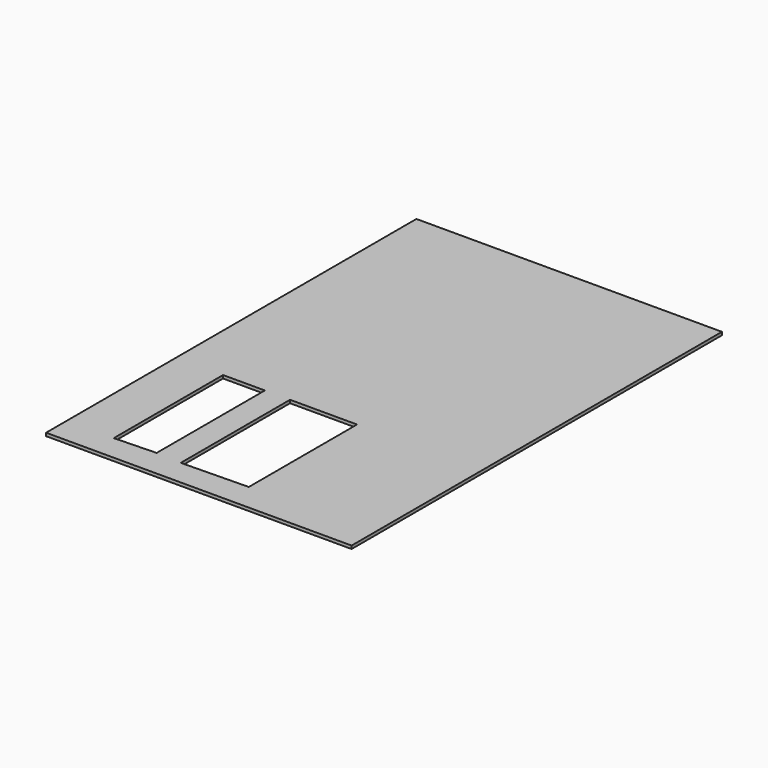
from build123d import *

# Parameters (mm, degrees)
F0_W     = 99
F0_H     = 150
F1_DEPTH = 1
F3_DEPTH = 25


with BuildPart() as f1:
    # F0 (on Top) → F1 (new body)
    with BuildSketch(Plane.XY):
        Rectangle(F0_W, F0_H)
    extrude(amount=F1_DEPTH)

    # F2 (on face) → F3 (cut)
    with BuildSketch(Plane.XY.offset(1)):
        Polygon((-34.271829, -22.346523), (-34.271829, -66.609822), (-20.734994, -66.18008), (-20.734994, -22.346523), align=None)
        Polygon((-12.569919, -22.346523), (-12.569919, -66.609822), (9.131993, -66.18008), (9.131993, -22.346523), align=None)
    extrude(amount=-F3_DEPTH, mode=Mode.SUBTRACT)


solid = f1.part
